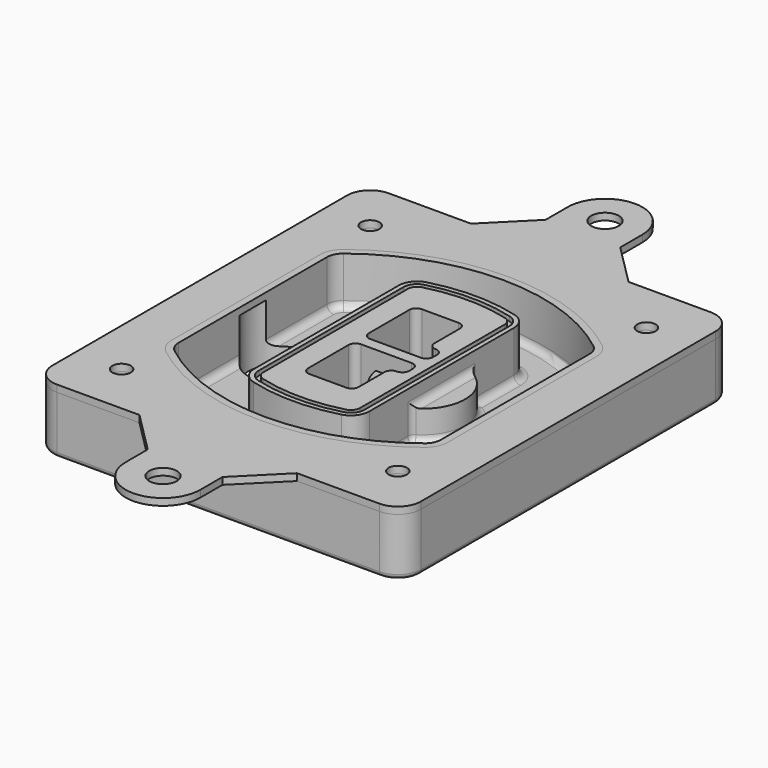
from build123d import *

# Parameters (mm, degrees)
F0_R      = 4
F1_DEPTH  = 25
F2_DEPTH  = 3
F3_DEPTH  = 18
F5_DEPTH  = 21
F6_DEPTH  = 2
F8_DEPTH  = 20
F9_DEPTH  = 16
F10_DEPTH = 25
F7_R      = 6
F7_R_2    = 4
F11_DEPTH = 6
F13_DEPTH = 9
F14_R     = 3
F15_R     = 2
F16_R     = 6
F16_R_2   = 4
F17_DEPTH = 3


with BuildPart() as f1:
    # F0 (on Top) → F1 (new body)
    with BuildSketch(Plane.XY):
        with BuildLine():
            ThreePointArc((-80, -80), (-77.0710678119, -87.0710678119), (-70, -90))
            Line((-70, -90), (70, -90))
            ThreePointArc((70, -90), (77.0710678119, -87.0710678119), (80, -80))
            Line((80, -80), (80, 80))
            ThreePointArc((80, 80), (77.0710678119, 87.0710678119), (70, 90))
            Line((70, 90), (-70, 90))
            ThreePointArc((-70, 90), (-77.0710678119, 87.0710678119), (-80, 80))
            Line((-80, 80), (-80, -80))
        make_face()
        with Locations((-60, -67.5)):
            Circle(F0_R, mode=Mode.SUBTRACT)
        with Locations((60, -67.5)):
            Circle(F0_R, mode=Mode.SUBTRACT)
        with Locations((-60, 67.5)):
            Circle(F0_R, mode=Mode.SUBTRACT)
        with BuildLine():
            ThreePointArc((-64, 40.2934422872), (-62.5820384798, 46.4328484224), (-58.6153846154, 51.3286200352))
            ThreePointArc((-58.6153846154, 51.3286200352), (0, 71.5), (58.6153846154, 51.3286200352))
            ThreePointArc((58.6153846154, 51.3286200352), (62.5820384798, 46.4328484224), (64, 40.2934422872))
            Line((64, 40.2934422872), (64, -40.2934422872))
            ThreePointArc((64, -40.2934422872), (62.5820384798, -46.4328484224), (58.6153846154, -51.3286200352))
            ThreePointArc((58.6153846154, -51.3286200352), (0, -71.5), (-58.6153846154, -51.3286200352))
            ThreePointArc((-58.6153846154, -51.3286200352), (-62.5820384798, -46.4328484224), (-64, -40.2934422872))
            Line((-64, -40.2934422872), (-64, 40.2934422872))
        make_face(mode=Mode.SUBTRACT)
        with Locations((60, 67.5)):
            Circle(F0_R, mode=Mode.SUBTRACT)
        with BuildLine():
            ThreePointArc((58.6153846154, 51.3286200352), (0, 71.5), (-58.6153846154, 51.3286200352))
            ThreePointArc((-58.6153846154, 51.3286200352), (-62.5820384798, 46.4328484224), (-64, 40.2934422872))
            Line((-64, 40.2934422872), (-64, -40.2934422872))
            ThreePointArc((-64, -40.2934422872), (-62.5820384798, -46.4328484224), (-58.6153846154, -51.3286200352))
            ThreePointArc((-58.6153846154, -51.3286200352), (0, -71.5), (58.6153846154, -51.3286200352))
            ThreePointArc((58.6153846154, -51.3286200352), (62.5820384798, -46.4328484224), (64, -40.2934422872))
            Line((64, -40.2934422872), (64, 40.2934422872))
            ThreePointArc((64, 40.2934422872), (62.5820384798, 46.4328484224), (58.6153846154, 51.3286200352))
        make_face()
        with BuildLine():
            Line((-60, -40.2934422872), (-60, 40.2934422872))
            ThreePointArc((-60, 40.2934422872), (-58.9871703427, 44.6787323838), (-56.1538461538, 48.1757121072))
            ThreePointArc((-56.1538461538, 48.1757121072), (0, 67.5), (56.1538461538, 48.1757121072))
            ThreePointArc((56.1538461538, 48.1757121072), (58.9871703427, 44.6787323838), (60, 40.2934422872))
            Line((60, 40.2934422872), (60, -40.2934422872))
            ThreePointArc((60, -40.2934422872), (58.9871703427, -44.6787323838), (56.1538461538, -48.1757121072))
            ThreePointArc((56.1538461538, -48.1757121072), (0, -67.5), (-56.1538461538, -48.1757121072))
            ThreePointArc((-56.1538461538, -48.1757121072), (-58.9871703427, -44.6787323838), (-60, -40.2934422872))
        make_face(mode=Mode.SUBTRACT)
        with BuildLine():
            ThreePointArc((-56.1538461538, 48.1757121072), (-58.9871703427, 44.6787323838), (-60, 40.2934422872))
            Line((-60, 40.2934422872), (-60, -40.2934422872))
            ThreePointArc((-60, -40.2934422872), (-58.9871703427, -44.6787323838), (-56.1538461538, -48.1757121072))
            ThreePointArc((-56.1538461538, -48.1757121072), (0, -67.5), (56.1538461538, -48.1757121072))
            ThreePointArc((56.1538461538, -48.1757121072), (58.9871703427, -44.6787323838), (60, -40.2934422872))
            Line((60, -40.2934422872), (60, 40.2934422872))
            ThreePointArc((60, 40.2934422872), (58.9871703427, 44.6787323838), (56.1538461538, 48.1757121072))
            ThreePointArc((56.1538461538, 48.1757121072), (0, 67.5), (-56.1538461538, 48.1757121072))
        make_face()
        with BuildLine():
            ThreePointArc((54.3076923077, 45.8110311612), (56.2910192399, 43.3631453548), (57, 40.2934422872))
            Line((57, 40.2934422872), (57, -40.2934422872))
            ThreePointArc((57, -40.2934422872), (56.2910192399, -43.3631453548), (54.3076923077, -45.8110311612))
            ThreePointArc((54.3076923077, -45.8110311612), (0, -64.5), (-54.3076923077, -45.8110311612))
            ThreePointArc((-54.3076923077, -45.8110311612), (-56.2910192399, -43.3631453548), (-57, -40.2934422872))
            Line((-57, -40.2934422872), (-57, 40.2934422872))
            ThreePointArc((-57, 40.2934422872), (-56.2910192399, 43.3631453548), (-54.3076923077, 45.8110311612))
            ThreePointArc((-54.3076923077, 45.8110311612), (0, 64.5), (54.3076923077, 45.8110311612))
        make_face(mode=Mode.SUBTRACT)
        with BuildLine():
            Line((57, -40.2934422872), (57, 40.2934422872))
            ThreePointArc((57, 40.2934422872), (56.2910192399, 43.3631453548), (54.3076923077, 45.8110311612))
            ThreePointArc((54.3076923077, 45.8110311612), (0, 64.5), (-54.3076923077, 45.8110311612))
            ThreePointArc((-54.3076923077, 45.8110311612), (-56.2910192399, 43.3631453548), (-57, 40.2934422872))
            Line((-57, 40.2934422872), (-57, -40.2934422872))
            ThreePointArc((-57, -40.2934422872), (-56.2910192399, -43.3631453548), (-54.3076923077, -45.8110311612))
            ThreePointArc((-54.3076923077, -45.8110311612), (0, -64.5), (54.3076923077, -45.8110311612))
            ThreePointArc((54.3076923077, -45.8110311612), (56.2910192399, -43.3631453548), (57, -40.2934422872))
        make_face()
    extrude(amount=-F1_DEPTH)

    # F0 (on Top) → F2 (join)
    with BuildSketch(Plane.XY):
        with BuildLine():
            ThreePointArc((-56.1538461538, 48.1757121072), (-58.9871703427, 44.6787323838), (-60, 40.2934422872))
            Line((-60, 40.2934422872), (-60, -40.2934422872))
            ThreePointArc((-60, -40.2934422872), (-58.9871703427, -44.6787323838), (-56.1538461538, -48.1757121072))
            ThreePointArc((-56.1538461538, -48.1757121072), (0, -67.5), (56.1538461538, -48.1757121072))
            ThreePointArc((56.1538461538, -48.1757121072), (58.9871703427, -44.6787323838), (60, -40.2934422872))
            Line((60, -40.2934422872), (60, 40.2934422872))
            ThreePointArc((60, 40.2934422872), (58.9871703427, 44.6787323838), (56.1538461538, 48.1757121072))
            ThreePointArc((56.1538461538, 48.1757121072), (0, 67.5), (-56.1538461538, 48.1757121072))
        make_face()
        with BuildLine():
            ThreePointArc((54.3076923077, 45.8110311612), (56.2910192399, 43.3631453548), (57, 40.2934422872))
            Line((57, 40.2934422872), (57, -40.2934422872))
            ThreePointArc((57, -40.2934422872), (56.2910192399, -43.3631453548), (54.3076923077, -45.8110311612))
            ThreePointArc((54.3076923077, -45.8110311612), (0, -64.5), (-54.3076923077, -45.8110311612))
            ThreePointArc((-54.3076923077, -45.8110311612), (-56.2910192399, -43.3631453548), (-57, -40.2934422872))
            Line((-57, -40.2934422872), (-57, 40.2934422872))
            ThreePointArc((-57, 40.2934422872), (-56.2910192399, 43.3631453548), (-54.3076923077, 45.8110311612))
            ThreePointArc((-54.3076923077, 45.8110311612), (0, 64.5), (54.3076923077, 45.8110311612))
        make_face(mode=Mode.SUBTRACT)
    extrude(amount=F2_DEPTH)

    # F0 (on Top) → F3 (cut)
    with BuildSketch(Plane.XY):
        with BuildLine():
            Line((57, -40.2934422872), (57, 40.2934422872))
            ThreePointArc((57, 40.2934422872), (56.2910192399, 43.3631453548), (54.3076923077, 45.8110311612))
            ThreePointArc((54.3076923077, 45.8110311612), (0, 64.5), (-54.3076923077, 45.8110311612))
            ThreePointArc((-54.3076923077, 45.8110311612), (-56.2910192399, 43.3631453548), (-57, 40.2934422872))
            Line((-57, 40.2934422872), (-57, -40.2934422872))
            ThreePointArc((-57, -40.2934422872), (-56.2910192399, -43.3631453548), (-54.3076923077, -45.8110311612))
            ThreePointArc((-54.3076923077, -45.8110311612), (0, -64.5), (54.3076923077, -45.8110311612))
            ThreePointArc((54.3076923077, -45.8110311612), (56.2910192399, -43.3631453548), (57, -40.2934422872))
        make_face()
    extrude(amount=-F3_DEPTH, mode=Mode.SUBTRACT)

    # F4 (on face) → F5 (join, through all)
    with BuildSketch(Plane.XY.offset(3)):
        with BuildLine():
            ThreePointArc((-25, -39.2465276821), (-23.3511545998, -44.1109737193), (-19.0842911877, -46.9702398883))
            ThreePointArc((-19.0842911877, -46.9702398883), (0, -49.5), (19.0842911877, -46.9702398883))
            ThreePointArc((19.0842911877, -46.9702398883), (23.3511545998, -44.1109737193), (25, -39.2465276821))
            Line((25, -39.2465276821), (25, 39.2465276821))
            ThreePointArc((25, 39.2465276821), (23.3511545998, 44.1109737193), (19.0842911877, 46.9702398883))
            ThreePointArc((19.0842911877, 46.9702398883), (0, 49.5), (-19.0842911877, 46.9702398883))
            ThreePointArc((-19.0842911877, 46.9702398883), (-23.3511545998, 44.1109737193), (-25, 39.2465276821))
            Line((-25, 39.2465276821), (-25, -39.2465276821))
        make_face()
        with BuildLine():
            ThreePointArc((18.5632183908, 45.0393118368), (21.7633659499, 42.89486221), (23, 39.2465276821))
            Line((23, 39.2465276821), (23, -39.2465276821))
            ThreePointArc((23, -39.2465276821), (21.7633659499, -42.89486221), (18.5632183908, -45.0393118368))
            ThreePointArc((18.5632183908, -45.0393118368), (0, -47.5), (-18.5632183908, -45.0393118368))
            ThreePointArc((-18.5632183908, -45.0393118368), (-21.7633659499, -42.89486221), (-23, -39.2465276821))
            Line((-23, -39.2465276821), (-23, 39.2465276821))
            ThreePointArc((-23, 39.2465276821), (-21.7633659499, 42.89486221), (-18.5632183908, 45.0393118368))
            ThreePointArc((-18.5632183908, 45.0393118368), (0, 47.5), (18.5632183908, 45.0393118368))
        make_face(mode=Mode.SUBTRACT)
        with BuildLine():
            Line((23, -39.2465276821), (23, 39.2465276821))
            ThreePointArc((23, 39.2465276821), (21.7633659499, 42.89486221), (18.5632183908, 45.0393118368))
            ThreePointArc((18.5632183908, 45.0393118368), (0, 47.5), (-18.5632183908, 45.0393118368))
            ThreePointArc((-18.5632183908, 45.0393118368), (-21.7633659499, 42.89486221), (-23, 39.2465276821))
            Line((-23, 39.2465276821), (-23, -39.2465276821))
            ThreePointArc((-23, -39.2465276821), (-21.7633659499, -42.89486221), (-18.5632183908, -45.0393118368))
            ThreePointArc((-18.5632183908, -45.0393118368), (0, -47.5), (18.5632183908, -45.0393118368))
            ThreePointArc((18.5632183908, -45.0393118368), (21.7633659499, -42.89486221), (23, -39.2465276821))
        make_face()
        with BuildLine():
            ThreePointArc((18.0421455939, 43.1083837852), (20.1755772999, 41.6787507007), (21, 39.2465276821))
            Line((21, 39.2465276821), (21, -39.2465276821))
            ThreePointArc((21, -39.2465276821), (20.1755772999, -41.6787507007), (18.0421455939, -43.1083837852))
            ThreePointArc((18.0421455939, -43.1083837852), (0, -45.5), (-18.0421455939, -43.1083837852))
            ThreePointArc((-18.0421455939, -43.1083837852), (-20.1755772999, -41.6787507007), (-21, -39.2465276821))
            Line((-21, -39.2465276821), (-21, 39.2465276821))
            ThreePointArc((-21, 39.2465276821), (-20.1755772999, 41.6787507007), (-18.0421455939, 43.1083837852))
            ThreePointArc((-18.0421455939, 43.1083837852), (0, 45.5), (18.0421455939, 43.1083837852))
        make_face(mode=Mode.SUBTRACT)
        with BuildLine():
            Line((21, -39.2465276821), (21, 39.2465276821))
            ThreePointArc((21, 39.2465276821), (20.1755772999, 41.6787507007), (18.0421455939, 43.1083837852))
            ThreePointArc((18.0421455939, 43.1083837852), (0, 45.5), (-18.0421455939, 43.1083837852))
            ThreePointArc((-18.0421455939, 43.1083837852), (-20.1755772999, 41.6787507007), (-21, 39.2465276821))
            Line((-21, 39.2465276821), (-21, -39.2465276821))
            ThreePointArc((-21, -39.2465276821), (-20.1755772999, -41.6787507007), (-18.0421455939, -43.1083837852))
            ThreePointArc((-18.0421455939, -43.1083837852), (0, -45.5), (18.0421455939, -43.1083837852))
            ThreePointArc((18.0421455939, -43.1083837852), (20.1755772999, -41.6787507007), (21, -39.2465276821))
        make_face()
        with BuildLine():
            Line((-8, -2.5), (14, -2.5))
            ThreePointArc((14, -2.5), (16.1213203436, -3.3786796564), (17, -5.5))
            Line((17, -5.5), (17, -7.5))
            ThreePointArc((17, -7.5), (16.1213203436, -9.6213203436), (14, -10.5))
            ThreePointArc((14, -10.5), (11.8786796564, -11.3786796564), (11, -13.5))
            Line((11, -13.5), (11, -27.5))
            ThreePointArc((11, -27.5), (10.1213203436, -29.6213203436), (8, -30.5))
            Line((8, -30.5), (-8, -30.5))
            ThreePointArc((-8, -30.5), (-10.1213203436, -29.6213203436), (-11, -27.5))
            Line((-11, -27.5), (-11, -5.5))
            ThreePointArc((-11, -5.5), (-10.1213203436, -3.3786796564), (-8, -2.5))
        make_face(mode=Mode.SUBTRACT)
        with BuildLine():
            ThreePointArc((-8, 2.5), (-10.1213203436, 3.3786796564), (-11, 5.5))
            Line((-11, 5.5), (-11, 27.5))
            ThreePointArc((-11, 27.5), (-10.1213203436, 29.6213203436), (-8, 30.5))
            Line((-8, 30.5), (8, 30.5))
            ThreePointArc((8, 30.5), (10.1213203436, 29.6213203436), (11, 27.5))
            Line((11, 27.5), (11, 13.5))
            ThreePointArc((11, 13.5), (11.8786796564, 11.3786796564), (14, 10.5))
            ThreePointArc((14, 10.5), (16.1213203436, 9.6213203436), (17, 7.5))
            Line((17, 7.5), (17, 5.5))
            ThreePointArc((17, 5.5), (16.1213203436, 3.3786796564), (14, 2.5))
            Line((14, 2.5), (-8, 2.5))
        make_face(mode=Mode.SUBTRACT)
    extrude(amount=-F5_DEPTH)

    # F4 (on face) → F6 (cut)
    with BuildSketch(Plane.XY.offset(3)):
        with BuildLine():
            Line((23, -39.2465276821), (23, 39.2465276821))
            ThreePointArc((23, 39.2465276821), (21.7633659499, 42.89486221), (18.5632183908, 45.0393118368))
            ThreePointArc((18.5632183908, 45.0393118368), (0, 47.5), (-18.5632183908, 45.0393118368))
            ThreePointArc((-18.5632183908, 45.0393118368), (-21.7633659499, 42.89486221), (-23, 39.2465276821))
            Line((-23, 39.2465276821), (-23, -39.2465276821))
            ThreePointArc((-23, -39.2465276821), (-21.7633659499, -42.89486221), (-18.5632183908, -45.0393118368))
            ThreePointArc((-18.5632183908, -45.0393118368), (0, -47.5), (18.5632183908, -45.0393118368))
            ThreePointArc((18.5632183908, -45.0393118368), (21.7633659499, -42.89486221), (23, -39.2465276821))
        make_face()
        with BuildLine():
            ThreePointArc((18.0421455939, 43.1083837852), (20.1755772999, 41.6787507007), (21, 39.2465276821))
            Line((21, 39.2465276821), (21, -39.2465276821))
            ThreePointArc((21, -39.2465276821), (20.1755772999, -41.6787507007), (18.0421455939, -43.1083837852))
            ThreePointArc((18.0421455939, -43.1083837852), (0, -45.5), (-18.0421455939, -43.1083837852))
            ThreePointArc((-18.0421455939, -43.1083837852), (-20.1755772999, -41.6787507007), (-21, -39.2465276821))
            Line((-21, -39.2465276821), (-21, 39.2465276821))
            ThreePointArc((-21, 39.2465276821), (-20.1755772999, 41.6787507007), (-18.0421455939, 43.1083837852))
            ThreePointArc((-18.0421455939, 43.1083837852), (0, 45.5), (18.0421455939, 43.1083837852))
        make_face(mode=Mode.SUBTRACT)
    extrude(amount=-F6_DEPTH, mode=Mode.SUBTRACT)

    # F7 (on face) → F8 (join)
    with BuildSketch(Plane(origin=(0, 0, -25), x_dir=(1, 0, 0), z_dir=(0, 0, -1))):
        with BuildLine():
            ThreePointArc((3.28842436, 0), (16.7567035675, 13.4682792075), (30.224982775, 0))
            Line((30.224982775, 0), (35.224982775, 0))
            ThreePointArc((35.224982775, 0), (16.7567035675, 18.4682792075), (-1.71157564, 0))
            Line((-1.71157564, 0), (3.28842436, 0))
        make_face()
        with BuildLine():
            Line((3.28842436, 0), (30.224982775, 0))
            ThreePointArc((30.224982775, 0), (16.7567035675, 13.4682792075), (3.28842436, 0))
        make_face()
        with BuildLine():
            ThreePointArc((3.28842436, 0), (16.7567035675, -13.4682792075), (30.224982775, 0))
            Line((30.224982775, 0), (3.28842436, 0))
        make_face()
        with BuildLine():
            Line((35.224982775, 0), (30.224982775, 0))
            ThreePointArc((30.224982775, 0), (16.7567035675, -13.4682792075), (3.28842436, 0))
            Line((3.28842436, 0), (-1.71157564, 0))
            ThreePointArc((-1.71157564, 0), (16.7567035675, -18.4682792075), (35.224982775, 0))
        make_face()
    extrude(amount=-F8_DEPTH)

    # F7 (on face) → F9 (cut)
    with BuildSketch(Plane(origin=(0, 0, -25), x_dir=(1, 0, 0), z_dir=(0, 0, -1))):
        with BuildLine():
            Line((3.28842436, 0), (30.224982775, 0))
            ThreePointArc((30.224982775, 0), (16.7567035675, 13.4682792075), (3.28842436, 0))
        make_face()
        with BuildLine():
            ThreePointArc((3.28842436, 0), (16.7567035675, -13.4682792075), (30.224982775, 0))
            Line((30.224982775, 0), (3.28842436, 0))
        make_face()
    extrude(amount=-F9_DEPTH, mode=Mode.SUBTRACT)

    # F7 (on face) → F10 (cut)
    with BuildSketch(Plane(origin=(0, 0, -25), x_dir=(1, 0, 0), z_dir=(0, 0, -1))):
        with BuildLine():
            Line((-59.0318229325, 0), (-32.0952645175, 0))
            ThreePointArc((-32.0952645175, 0), (-45.563543725, 13.4682792075), (-59.0318229325, 0))
        make_face()
        with BuildLine():
            ThreePointArc((-59.0318229325, 0), (-45.563543725, -13.4682792075), (-32.0952645175, 0))
            Line((-32.0952645175, 0), (-59.0318229325, 0))
        make_face()
    extrude(amount=-F10_DEPTH, mode=Mode.SUBTRACT)

    # F7 (on face) → F11 (cut)
    with BuildSketch(Plane(origin=(0, 0, -25), x_dir=(1, 0, 0), z_dir=(0, 0, -1))):
        with Locations((60, -67.5)):
            Circle(F7_R)
        with Locations((60, -67.5)):
            Circle(F7_R_2, mode=Mode.SUBTRACT)
        with Locations((60, -67.5)):
            Circle(F7_R)
        with Locations((60, -67.5)):
            Circle(F7_R_2, mode=Mode.SUBTRACT)
        with Locations((-60, -67.5)):
            Circle(F7_R)
        with Locations((-60, -67.5)):
            Circle(F7_R_2, mode=Mode.SUBTRACT)
        with Locations((-60, -67.5)):
            Circle(F7_R)
        with Locations((-60, -67.5)):
            Circle(F7_R_2, mode=Mode.SUBTRACT)
        with Locations((-60, 67.5)):
            Circle(F7_R)
        with Locations((-60, 67.5)):
            Circle(F7_R_2, mode=Mode.SUBTRACT)
        with Locations((-60, 67.5)):
            Circle(F7_R)
        with Locations((-60, 67.5)):
            Circle(F7_R_2, mode=Mode.SUBTRACT)
        with Locations((60, 67.5)):
            Circle(F7_R)
        with Locations((60, 67.5)):
            Circle(F7_R_2, mode=Mode.SUBTRACT)
        with Locations((60, 67.5)):
            Circle(F7_R)
        with Locations((60, 67.5)):
            Circle(F7_R_2, mode=Mode.SUBTRACT)
    extrude(amount=-F11_DEPTH, mode=Mode.SUBTRACT)

    # F12 (on face) → F13 (cut, through all)
    with BuildSketch(Plane(origin=(0, 0, -9), x_dir=(1, 0, 0), z_dir=(0, 0, -1))):
        with BuildLine():
            Line((11, 13.5), (11, 17.5481537753))
            ThreePointArc((11, 17.5481537753), (2.5696536419, 11.8239143813), (-1.5415842455, 2.5))
            Line((-1.5415842455, 2.5), (3.5224848595, 2.5))
            ThreePointArc((3.5224848595, 2.5), (6.1857188154, 8.3455872281), (11.2536447004, 12.2927168648))
            ThreePointArc((11.2536447004, 12.2927168648), (11.0640958889, 12.8831798879), (11, 13.5))
        make_face()
        with BuildLine():
            ThreePointArc((11.2536447004, -12.2927168648), (6.1857188154, -8.3455872281), (3.5224848595, -2.5))
            Line((3.5224848595, -2.5), (-1.5415842455, -2.5))
            ThreePointArc((-1.5415842455, -2.5), (2.5696536419, -11.8239143813), (11, -17.5481537753))
            Line((11, -17.5481537753), (11, -13.5))
            ThreePointArc((11, -13.5), (11.0640958889, -12.8831798879), (11.2536447004, -12.2927168648))
        make_face()
        with BuildLine():
            ThreePointArc((11.2536447004, 12.2927168648), (6.1857188154, 8.3455872281), (3.5224848595, 2.5))
            Line((3.5224848595, 2.5), (14, 2.5))
            ThreePointArc((14, 2.5), (16.1213203436, 3.3786796564), (17, 5.5))
            Line((17, 5.5), (17, 7.5))
            ThreePointArc((17, 7.5), (16.1213203436, 9.6213203436), (14, 10.5))
            ThreePointArc((14, 10.5), (12.3601599782, 10.9878446101), (11.2536447004, 12.2927168648))
        make_face()
        with BuildLine():
            Line((14, -2.5), (3.5224848595, -2.5))
            ThreePointArc((3.5224848595, -2.5), (6.1857188154, -8.3455872281), (11.2536447004, -12.2927168648))
            ThreePointArc((11.2536447004, -12.2927168648), (12.3601599782, -10.9878446101), (14, -10.5))
            ThreePointArc((14, -10.5), (16.1213203436, -9.6213203436), (17, -7.5))
            Line((17, -7.5), (17, -5.5))
            ThreePointArc((17, -5.5), (16.1213203436, -3.3786796564), (14, -2.5))
        make_face()
    extrude(amount=F13_DEPTH, mode=Mode.SUBTRACT)

    # F14
    f14_edges = [f1.edges().sort_by_distance(p)[0] for p in [
        (-57, -23.703476, -18),
        (-57, 23.703476, -18),
        (25, 0, -5),
        (25, 16.526506, -11.5),
        (25, -16.526506, -11.5),
        (25, -27.886517, -18),
        (35.224983, 0, -18),
    ]]
    fillet(f14_edges, radius=F14_R)

    # F15
    f15_edges = [f1.edges().sort_by_distance(p)[0] for p in [
        (0, -90, -25),
    ]]
    fillet(f15_edges, radius=F15_R)


with BuildPart() as f17:
    # F16 (on face) → F17 (new body)
    with BuildSketch(Plane.XY):
        with BuildLine():
            Line((34.221239388, -90), (-34.221239388, -90))
            Line((-34.221239388, -90), (-16.221239388, -108))
            Line((-16.221239388, -108), (-16.221239388, -120))
            ThreePointArc((-16.221239388, -120), (0, -136.221239388), (16.221239388, -120))
            Line((16.221239388, -120), (16.221239388, -108))
            Line((16.221239388, -108), (34.221239388, -90))
        make_face()
        with Locations((0, -120)):
            Circle(F16_R, mode=Mode.SUBTRACT)
        with BuildLine():
            ThreePointArc((16.221239388, 120), (0, 136.221239388), (-16.221239388, 120))
            Line((-16.221239388, 120), (-16.221239388, 108))
            Line((-16.221239388, 108), (-34.221239388, 90))
            Line((-34.221239388, 90), (34.221239388, 90))
            Line((34.221239388, 90), (16.221239388, 108))
            Line((16.221239388, 108), (16.221239388, 120))
        make_face()
        with Locations((0, 120)):
            Circle(F16_R, mode=Mode.SUBTRACT)
        with BuildLine():
            Line((34.221239388, 90), (-34.221239388, 90))
            Line((-34.221239388, 90), (-70, 90))
            ThreePointArc((-70, 90), (-77.0710678119, 87.0710678119), (-80, 80))
            Line((-80, 80), (-80, -80))
            ThreePointArc((-80, -80), (-77.0710678119, -87.0710678119), (-70, -90))
            Line((-70, -90), (-34.221239388, -90))
            Line((-34.221239388, -90), (34.221239388, -90))
            Line((34.221239388, -90), (70, -90))
            ThreePointArc((70, -90), (77.0710678119, -87.0710678119), (80, -80))
            Line((80, -80), (80, 80))
            ThreePointArc((80, 80), (77.0710678119, 87.0710678119), (70, 90))
            Line((70, 90), (34.221239388, 90))
        make_face()
        with Locations((-60, -67.5)):
            Circle(F16_R_2, mode=Mode.SUBTRACT)
        with Locations((60, -67.5)):
            Circle(F16_R_2, mode=Mode.SUBTRACT)
        with Locations((-60, 67.5)):
            Circle(F16_R_2, mode=Mode.SUBTRACT)
        with BuildLine():
            ThreePointArc((-60, 40.2934422872), (-58.9871703427, 44.6787323838), (-56.1538461538, 48.1757121072))
            ThreePointArc((-56.1538461538, 48.1757121072), (0, 67.5), (56.1538461538, 48.1757121072))
            ThreePointArc((56.1538461538, 48.1757121072), (58.9871703427, 44.6787323838), (60, 40.2934422872))
            Line((60, 40.2934422872), (60, -40.2934422872))
            ThreePointArc((60, -40.2934422872), (58.9871703427, -44.6787323838), (56.1538461538, -48.1757121072))
            ThreePointArc((56.1538461538, -48.1757121072), (0, -67.5), (-56.1538461538, -48.1757121072))
            ThreePointArc((-56.1538461538, -48.1757121072), (-58.9871703427, -44.6787323838), (-60, -40.2934422872))
            Line((-60, -40.2934422872), (-60, 40.2934422872))
        make_face(mode=Mode.SUBTRACT)
        with Locations((60, 67.5)):
            Circle(F16_R_2, mode=Mode.SUBTRACT)
    extrude(amount=F17_DEPTH)


solid = Compound([f1.part, f17.part])
